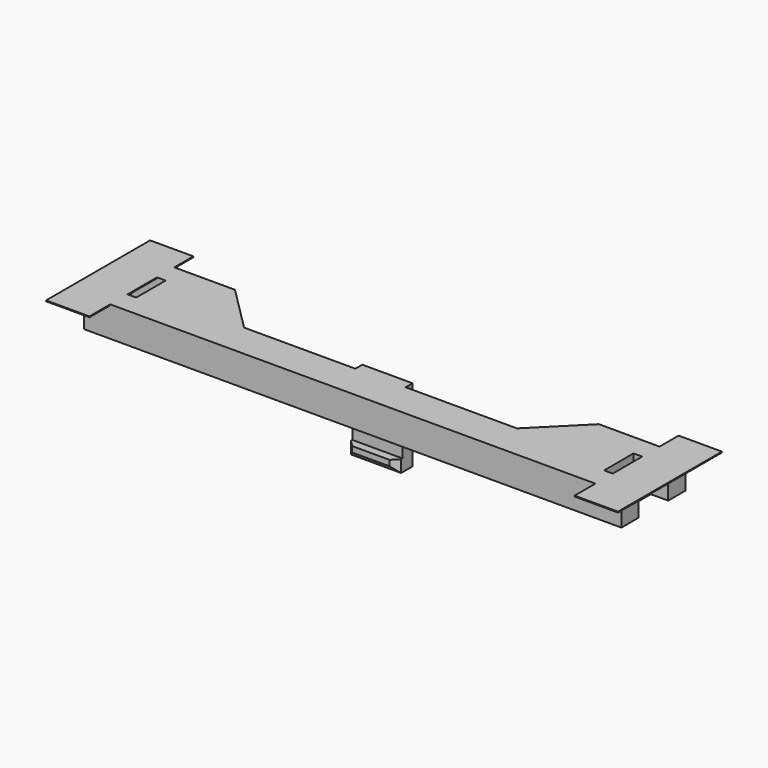
from build123d import *

# Parameters (mm, degrees)
PAD002_DEPTH    = 7
PAD003_DEPTH    = 3
CHAMFER003_SIZE = 1.5
SKETCH019_W     = 4
SKETCH019_H     = 8.5
POCKET003_DEPTH = 7.001
SKETCH020_W     = 4
SKETCH020_H     = 8.5
POCKET004_DEPTH = 4
SKETCH024_W     = 11.6
SKETCH024_H     = 2.9
PAD006_DEPTH    = 16.9
SKETCH025_W     = 11.6
SKETCH025_H     = 2.8
PAD007_DEPTH    = 1.9
CHAMFER005_SIZE = 1.5
SKETCH026_W     = 6.8
SKETCH026_H     = 10.4
PAD008_DEPTH    = 3.2
SKETCH034_W     = 10
SKETCH034_H     = 30
PAD014_DEPTH    = 0.2


with BuildPart() as part:
    # Sketch006 → Pad002 (new body)
    with BuildSketch(Plane.XY.offset(4)):
        Polygon((-62, 2.5), (-62, -16), (62, -16), (62, 2.5), (42, 2.5), (31.5, -8), (-31.5, -8), (-42, 2.5), align=None)
    extrude(amount=PAD002_DEPTH)

    # Sketch007 (on Face9 of Pad002) → Pad003 (join)
    with BuildSketch(Plane(origin=(0, 0, 4), x_dir=(1, 0, 0), z_dir=(0, 0, -1))):
        with BuildLine():
            Line((-31.5, 8), (31.5, 8))
            Line((37.293259, 2.206741), (31.5, 8))
            Line((38.566051, 3.479533), (37.293259, 2.206741))
            Line((32.772792, 9.272792), (38.566051, 3.479533))
            ThreePointArc((32.772792, 9.272792), (32.18883, 9.662983), (31.5, 9.8))
            Line((31.5, 9.8), (-31.5, 9.8))
            ThreePointArc((-31.5, 9.8), (-32.18883, 9.662983), (-32.772792, 9.272792))
            Line((-38.566051, 3.479533), (-32.772792, 9.272792))
            Line((-37.293259, 2.206741), (-38.566051, 3.479533))
            Line((-31.5, 8), (-37.293259, 2.206741))
        make_face()
    extrude(amount=PAD003_DEPTH)

    # Chamfer003
    chamfer003_edges = [part.edges().sort_by_distance(p)[0] for p in [
        (-35.669422, -6.376163, 4),
    ]]
    chamfer(chamfer003_edges, length=CHAMFER003_SIZE)

    # Sketch019 (on Face1 of Chamfer003) → Pocket003 (cut, through all)
    with BuildSketch(Plane(origin=(0, 0, 4), x_dir=(1, 0, 0), z_dir=(0, 0, -1))):
        with Locations((-60, 6.75)):
            Rectangle(SKETCH019_W, SKETCH019_H)
        with Locations((60, 6.75)):
            Rectangle(SKETCH019_W, SKETCH019_H)
    extrude(amount=-POCKET003_DEPTH, mode=Mode.SUBTRACT)

    # Sketch020 (on Face31 of Pocket003) → Pocket004 (cut)
    with BuildSketch(Plane.XY.offset(11)):
        with Locations((-56, -6.75)):
            Rectangle(SKETCH020_W, SKETCH020_H)
        with Locations((56, -6.75)):
            Rectangle(SKETCH020_W, SKETCH020_H)
    extrude(amount=-POCKET004_DEPTH, mode=Mode.SUBTRACT)

    # Sketch024 (on Face27 of Pocket004) → Pad006 (join)
    with BuildSketch(Plane.XY.offset(11)):
        with Locations((0, -7.45)):
            Rectangle(SKETCH024_W, SKETCH024_H)
    extrude(amount=-PAD006_DEPTH)

    # Sketch025 (on Face37 of Pad006) → Pad007 (join)
    with BuildSketch(Plane.XZ.offset(8.9)):
        with Locations((0, -4.5)):
            Rectangle(SKETCH025_W, SKETCH025_H)
    extrude(amount=PAD007_DEPTH)

    # Chamfer005
    chamfer005_edges = [part.edges().sort_by_distance(p)[0] for p in [
        (0, -10.8, -5.9),
        (-5.8, -10.8, -4.5),
        (5.8, -10.8, -4.5),
    ]]
    chamfer(chamfer005_edges, length=CHAMFER005_SIZE)

    # Sketch026 (on Face37 of Chamfer005) → Pad008 (join)
    with BuildSketch(Plane(origin=(0, 0, 4), x_dir=(1, 0, 0), z_dir=(0, 0, -1))):
        with Locations((-46.5, 2.7)):
            Rectangle(SKETCH026_W, SKETCH026_H)
        with Locations((46.5, 2.7)):
            Rectangle(SKETCH026_W, SKETCH026_H)
    extrude(amount=PAD008_DEPTH)

    # Sketch034 (on Face12 of Pad008) → Pad014 (join)
    with BuildSketch(Plane.XY.offset(11)):
        with Locations((-61, -7)):
            Rectangle(SKETCH034_W, SKETCH034_H)
        with Locations((61, -7)):
            Rectangle(SKETCH034_W, SKETCH034_H)
    extrude(amount=-PAD014_DEPTH)


solid = part.part
